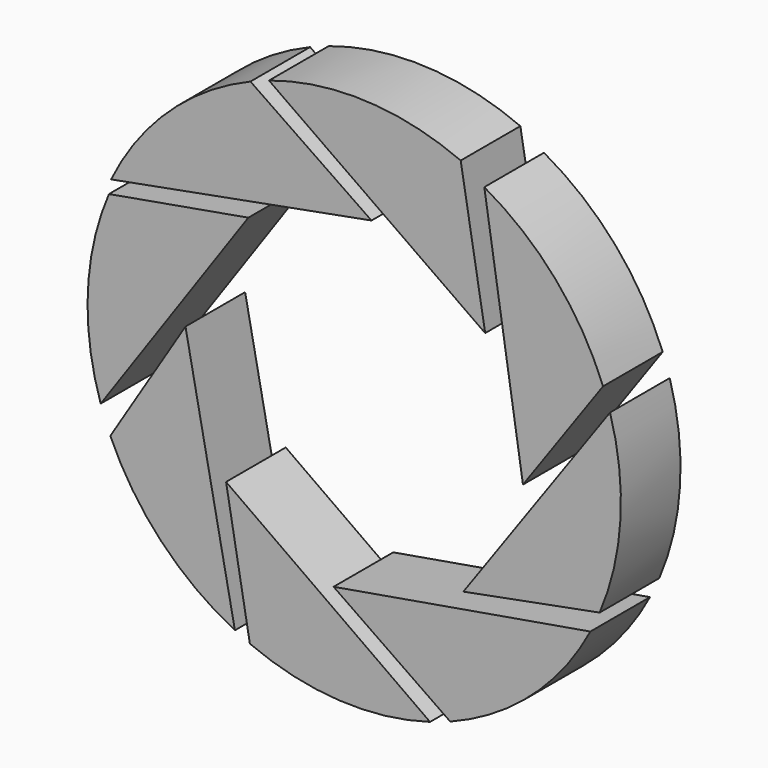
from build123d import *

# Parameters (mm, degrees)
F8_DEPTH = 20


with BuildPart() as f8:
    # F1 (on Front) + F0 (on Front) + F7 (on Front) + F6 (on Front) + F5 (on Front) + F4 (on Front) + F3 (on Front) + F2 (on Front) → F8 (new body)
    with BuildSketch(Plane.XZ):
        with BuildLine():
            ThreePointArc((28.561161, 66.659621), (3.049683, 72.4565), (-22.858682, 68.823874))
            Line((-22.858682, 68.823874), (35.11805, 28.037024))
            Line((35.11805, 28.037024), (28.561161, 66.659621))
        make_face()
    with BuildSketch(Plane.XZ):
        with BuildLine():
            ThreePointArc((-27.830314, 66.968042), (-49.7555, 52.760167), (-65.223108, 31.70475))
            Line((-65.223108, 31.70475), (4.634389, 44.709688))
            Line((4.634389, 44.709688), (-27.830314, 66.968042))
        make_face()
    with BuildSketch(Plane.XZ):
        with BuildLine():
            ThreePointArc((-65.7857, 28.062343), (-71.451352, 3.15558), (-68.003442, -22.153674))
            Line((-68.003442, -22.153674), (-28.408717, 34.633936))
            Line((-28.408717, 34.633936), (-65.7857, 28.062343))
        make_face()
    with BuildSketch(Plane.XZ):
        with BuildLine():
            ThreePointArc((-65.414011, -28.918171), (-51.763787, -49.353458), (-32.002099, -63.961857))
            Line((-32.002099, -63.961857), (-45.257535, 3.450413))
            Line((-45.257535, 3.450413), (-65.414011, -28.918171))
        make_face()
    with BuildSketch(Plane.XZ):
        with BuildLine():
            ThreePointArc((-27.99212, -65.815611), (-4.067715, -71.405232), (20.336696, -68.568741))
            Line((20.336696, -68.568741), (-34.370954, -29.686954))
            Line((-34.370954, -29.686954), (-27.99212, -65.815611))
        make_face()
    with BuildSketch(Plane.XZ):
        with BuildLine():
            ThreePointArc((25.748918, -66.725158), (47.577061, -53.401093), (63.322352, -33.249558))
            Line((63.322352, -33.249558), (-5.532766, -45.070843))
            Line((-5.532766, -45.070843), (25.748918, -66.725158))
        make_face()
        with BuildLine():
            ThreePointArc((25.748918, -66.725158), (47.577061, -53.401093), (63.322352, -33.249558))
            Line((63.322352, -33.249558), (-5.532766, -45.070843))
            Line((-5.532766, -45.070843), (25.748918, -66.725158))
        make_face()
    with BuildSketch(Plane.XZ):
        with BuildLine():
            ThreePointArc((65.82764, -27.963821), (71.401684, -4.129527), (68.612534, 20.188453))
            Line((68.612534, 20.188453), (29.274906, -34.902486))
            Line((29.274906, -34.902486), (65.82764, -27.963821))
        make_face()
    with BuildSketch(Plane.XZ):
        with BuildLine():
            ThreePointArc((66.725311, 25.748892), (54.01687, 46.876971), (34.889051, 62.434179))
            Line((34.889051, 62.434179), (45.254067, -4.429553))
            Line((45.254067, -4.429553), (66.725311, 25.748892))
        make_face()
    extrude(amount=F8_DEPTH)


solid = f8.part
